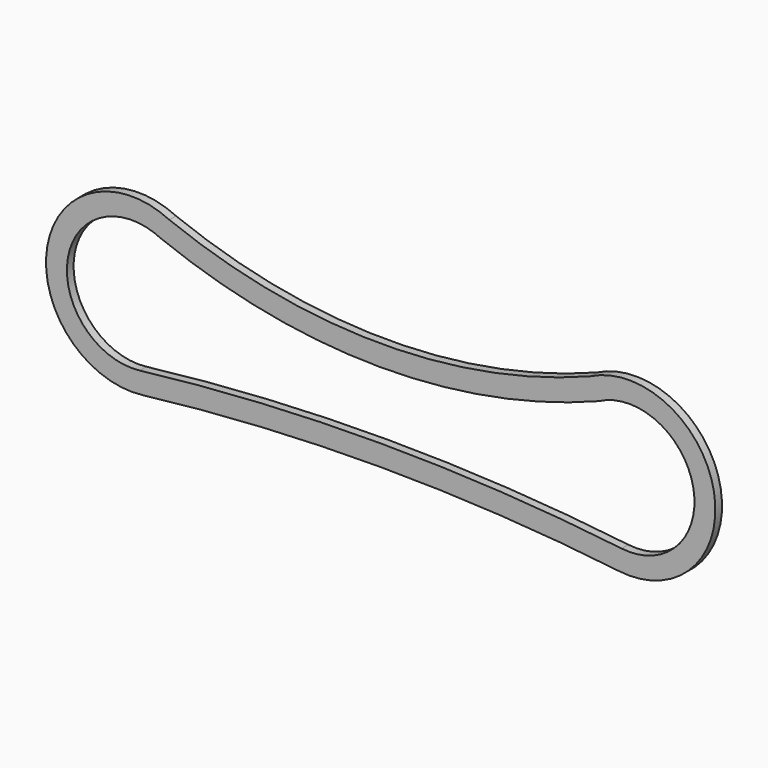
from build123d import *

# Parameters (mm, degrees)
F1_DEPTH = 20


with BuildPart() as f1:
    # F0 (on Front) → F1 (new body)
    with BuildSketch(Plane.XZ):
        with BuildLine():
            ThreePointArc((500.892132, 185.217152), (-2.959179, 91.107984), (-506.402254, 187.377131))
            ThreePointArc((-506.402254, 187.377131), (-798.755151, 35.512109), (-571.332985, -202.841325))
            ThreePointArc((-571.332985, -202.841325), (-0.57276, -169.139984), (570.187465, -202.841325))
            ThreePointArc((570.187465, -202.841325), (797.195768, 37.911638), (500.892132, 185.217152))
        make_face()
        with BuildLine():
            ThreePointArc((-577.217111, -153.188762), (-749.294898, 28.123415), (-526.555791, 141.578956))
            ThreePointArc((-526.555791, 141.578956), (-2.68909, 41.10734), (521.551776, 139.608005))
            ThreePointArc((521.551776, 139.608005), (747.767599, 30.255931), (576.071591, -153.188762))
            ThreePointArc((576.071591, -153.188762), (-0.57276, -119.139984), (-577.217111, -153.188762))
        make_face(mode=Mode.SUBTRACT)
    extrude(amount=F1_DEPTH)


solid = f1.part
